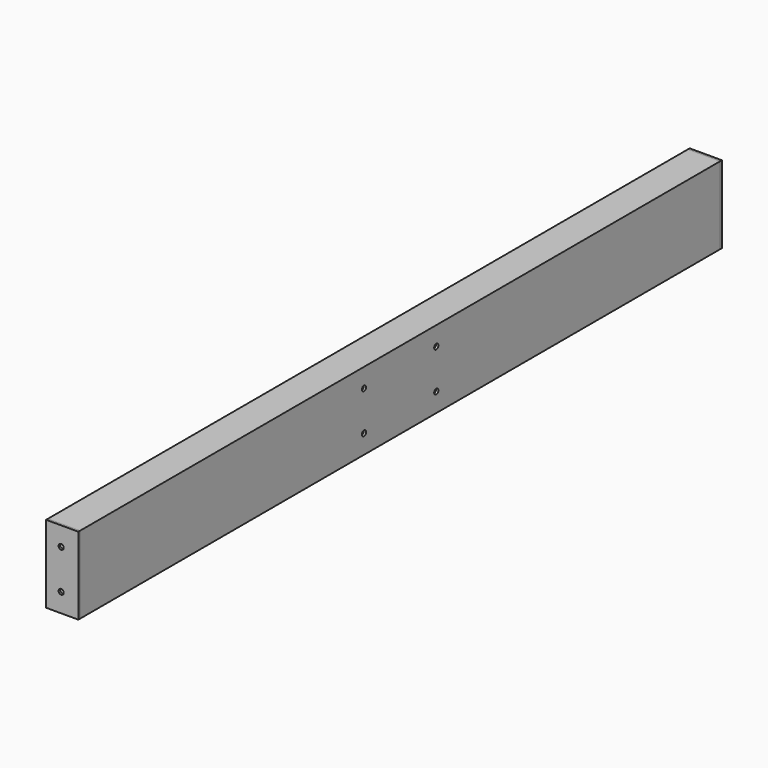
from build123d import *

# Parameters (mm, degrees)
F1_DEPTH = 930
F2_W     = 5
F2_H     = 180
F3_DEPTH = 75
F5_D     = 12
F7_D     = 12


with BuildPart() as f1:
    # F0 (on Front) → F1 (new body, symmetric)
    with BuildSketch(Plane.XZ):
        with BuildLine():
            Line((5.5, 61.726318), (-69.5, 61.726318))
            Line((-69.5, 61.726318), (-69.5, 51.226318))
            Line((-69.5, 51.226318), (-12, 51.226318))
            ThreePointArc((-12, 51.226318), (-3.514719, 47.711599), (0, 39.226318))
            Line((0, 39.226318), (0, -95.773682))
            ThreePointArc((0, -95.773682), (-3.514719, -104.258963), (-12, -107.773682))
            Line((-12, -107.773682), (-69.5, -107.773682))
            Line((-69.5, -107.773682), (-69.5, -118.273682))
            Line((-69.5, -118.273682), (5.5, -118.273682))
            Line((5.5, -118.273682), (5.5, 61.726318))
        make_face()
    extrude(amount=F1_DEPTH, both=True)

    # F7 (through all)
    with Locations(Plane.YZ.offset(5.5)):
        with Locations((-105, 17.726318), (105, 17.726318), (105, -74.273682), (-105, -74.273682)):
            Hole(F7_D / 2)


with BuildPart() as f3:
    # F2 (on face) → F3 (new body)
    with BuildSketch(Plane.YZ.offset(5.5)):
        with Locations((932.5, -28.273682)):
            Rectangle(F2_W, F2_H)
        with Locations((-932.5, -28.273682)):
            Rectangle(F2_W, F2_H)
    extrude(amount=-F3_DEPTH)

    # F5 (through all)
    with Locations(Plane.XZ.offset(935)):
        with Locations((-34.5, 17.726318), (-34.5, -74.273682)):
            Hole(F5_D / 2)


solid = Compound([f1.part, f3.part])
